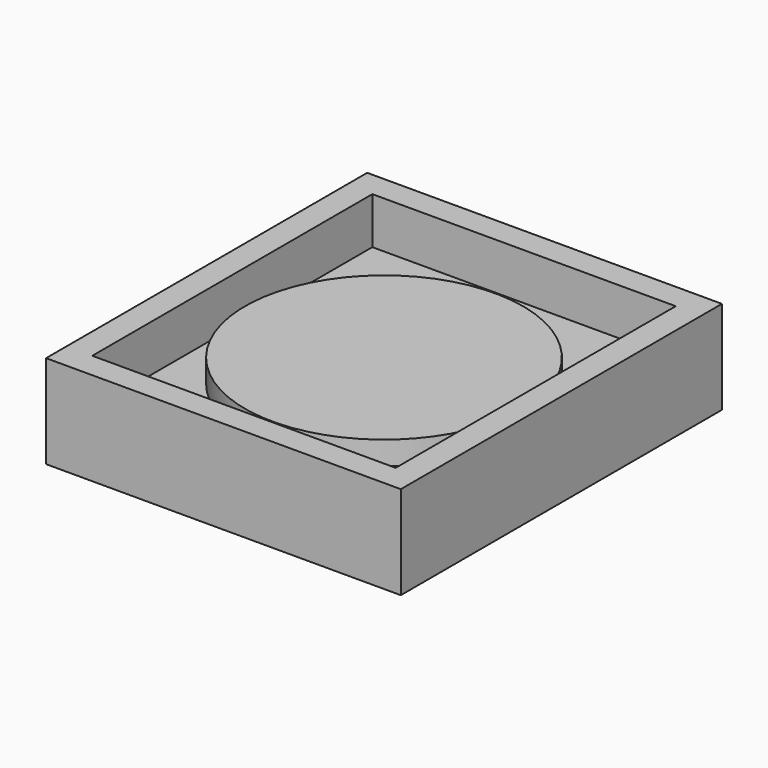
from build123d import *

# Parameters (mm, degrees)
F0_W     = 76
F0_H     = 86
F1_DEPTH = 20
F2_W     = 65
F2_H     = 75
F3_DEPTH = 10
F4_R     = 29.772661
F5_DEPTH = 5


with BuildPart() as f1:
    # F0 (on Top) → F1 (new body)
    with BuildSketch(Plane.XY):
        Rectangle(F0_W, F0_H)
    extrude(amount=F1_DEPTH)

    # F2 (on face) → F3 (cut)
    with BuildSketch(Plane.XY.offset(20)):
        Rectangle(F2_W, F2_H)
    extrude(amount=-F3_DEPTH, mode=Mode.SUBTRACT)

    # F4 (on face) → F5 (join)
    with BuildSketch(Plane.XY.offset(10)):
        Circle(F4_R)
    extrude(amount=F5_DEPTH)


solid = f1.part
